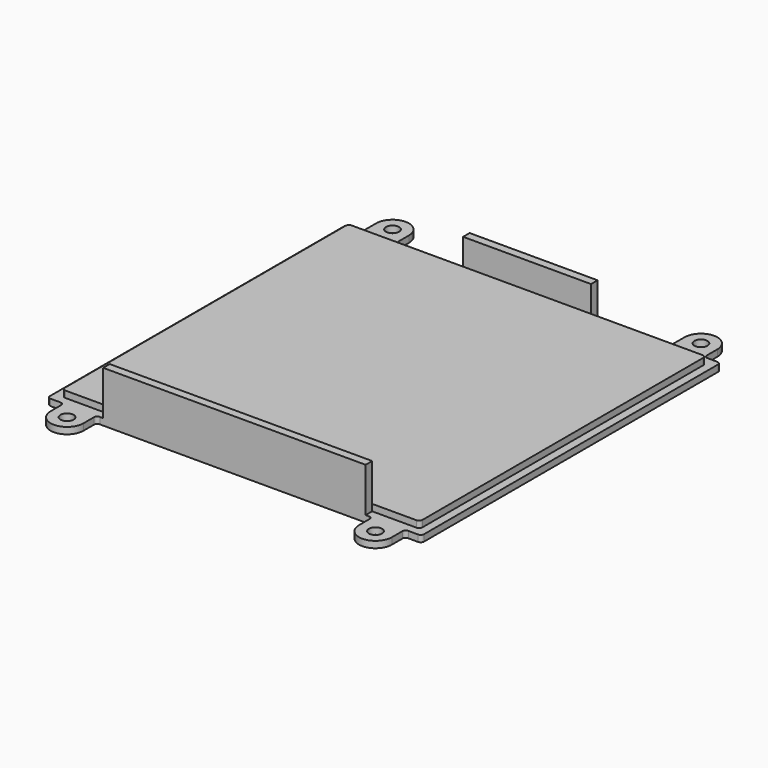
from build123d import *

# Parameters (mm, degrees)
SKETCH_W     = 114
SKETCH_H     = 114
PAD_DEPTH    = 2
SKETCH001_W  = 109
SKETCH001_H  = 109
PAD001_DEPTH = 2
PAD002_DEPTH = 2
SKETCH003_R  = 2
HOLE_DEPTH   = 4.001
FILLET_R     = 1
SKETCH004_W  = 80
SKETCH004_H  = 2.5
PAD003_DEPTH = 15.5
SKETCH005_W  = 39
SKETCH005_H  = 2.5
PAD004_DEPTH = 10
FILLET001_R  = 1


with BuildPart() as part:
    # Sketch → Pad (new body)
    with BuildSketch(Plane.XY):
        Rectangle(SKETCH_W, SKETCH_H)
    extrude(amount=PAD_DEPTH)

    # Sketch001 (on Face6 of Pad) → Pad001 (join)
    with BuildSketch(Plane.XY.offset(2)):
        Rectangle(SKETCH001_W, SKETCH001_H)
    extrude(amount=PAD001_DEPTH)

    # Sketch002 (on Face5 of Pad001) → Pad002 (join)
    with BuildSketch(Plane.XY.offset(2)):
        with BuildLine():
            ThreePointArc((52, 62), (47, 67), (42, 62))
            Line((42, 62), (42, 57))
            Line((42, 57), (52, 57))
            Line((52, 57), (52, 62))
        make_face()
        with BuildLine():
            ThreePointArc((-42, 62), (-47, 67), (-52, 62))
            Line((-52, 57), (-52, 62))
            Line((-42, 57), (-52, 57))
            Line((-42, 62), (-42, 57))
        make_face()
        with BuildLine():
            ThreePointArc((42, -62), (47, -67), (52, -62))
            Line((52, -57), (52, -62))
            Line((42, -57), (52, -57))
            Line((42, -62), (42, -57))
        make_face()
        with BuildLine():
            ThreePointArc((-52, -62), (-47, -67), (-42, -62))
            Line((-42, -62), (-42, -57))
            Line((-42, -57), (-52, -57))
            Line((-52, -57), (-52, -62))
        make_face()
    extrude(amount=-PAD002_DEPTH)

    # Sketch003 (on Face21 of Pad002) → Hole (cut, through all)
    with BuildSketch(Plane(origin=(0, 0, 0), x_dir=(1, 0, 0), z_dir=(0, 0, -1))):
        with Locations((-47, 62)):
            Circle(SKETCH003_R)
        with Locations((47, 62)):
            Circle(SKETCH003_R)
        with Locations((47, -62)):
            Circle(SKETCH003_R)
        with Locations((-47, -62)):
            Circle(SKETCH003_R)
    extrude(amount=-HOLE_DEPTH, mode=Mode.SUBTRACT)

    # Fillet
    fillet_edges = [part.edges().sort_by_distance(p)[0] for p in [
        (54.5, 54.5, 3),
        (-54.5, 54.5, 3),
        (-54.5, -54.5, 3),
        (54.5, -54.5, 3),
    ]]
    fillet(fillet_edges, radius=FILLET_R)

    # Sketch004 (on Face35 of Fillet) → Pad003 (join)
    with BuildSketch(Plane(origin=(0, 0, 0), x_dir=(1, 0, 0), z_dir=(0, 0, -1))):
        with Locations((0, 55.75)):
            Rectangle(SKETCH004_W, SKETCH004_H)
    extrude(amount=-PAD003_DEPTH)

    # Sketch005 (on Face1 of Pad003) → Pad004 (join)
    with BuildSketch(Plane.XY.offset(2)):
        with Locations((0, 55.75)):
            Rectangle(SKETCH005_W, SKETCH005_H)
    extrude(amount=PAD004_DEPTH)

    # Fillet001
    fillet001_edges = [part.edges().sort_by_distance(p)[0] for p in [
        (57, 57, 1),
        (-57, 57, 1),
        (-57, -57, 1),
        (57, -57, 1),
        (52, 57, 1),
        (52, -57, 1),
        (-42, -57, 1),
        (42, -57, 1),
        (-52, -57, 1),
        (-52, 57, 1),
        (42, 57, 1),
        (-42, 57, 1),
    ]]
    fillet(fillet001_edges, radius=FILLET001_R)


solid = part.part
